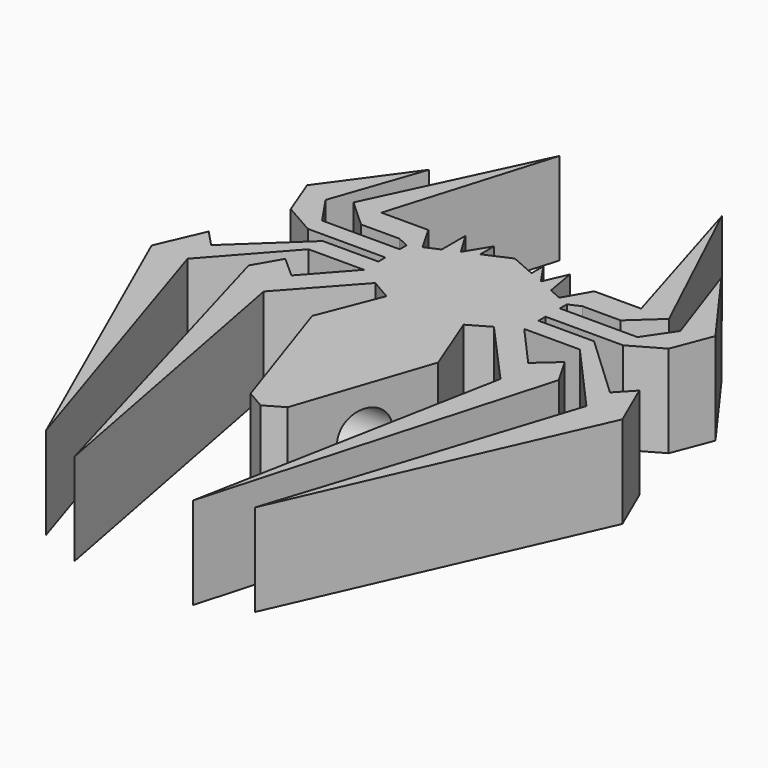
from build123d import *

# Parameters (mm, degrees)
F1_DEPTH = 25.4
F2_R     = 6.722416
F3_DEPTH = 19.304


with BuildPart() as f1:
    # F0 (on Top) → F1 (new body)
    with BuildSketch(Plane.XY):
        Polygon((-22.084782, 21.292763), (-18.868631, 22.704166), (-22.891159, 29.745255), (-35.822235, 29.745255), (-22.417855, 74.350529), (-43.49843, 29.745255), (-35.822235, 22.704166), (-25.267471, 22.704166), align=None)
        Polygon((-22.084782, 13.950433), (-22.084782, 18.870648), (-43.49843, 18.870648), (-48.935734, 26.866684), (-40.300015, 51.81431), (-56.316686, 29.745255), (-52.134149, 18.870648), (-43.49843, 13.950433), align=None)
        Polygon((-22.084782, 6.608103), (-22.084782, 11.514296), (-37.421443, 11.514296), (-55.012722, -4.994443), (-59.383125, -0.337456), (-64.927801, -13.113492), (-28.785726, -94.673045), (-55.012722, -13.113492), (-37.421443, 6.608103), align=None)
        Polygon((-16.357765, 3.304051), (-22.084782, 6.608103), (-32.656161, -5.243477), (-38.534627, 0), (-42.777374, -7.354087), (-16.357765, -100.430191), (-32.656161, -14.804116), align=None)
        Polygon((-14.944169, 24.426411), (-11.042391, 26.138701), (-14.944169, 32.623827), align=None)
        Polygon((7.062444, 31.984143), (7.062444, 27.885296), (11.042391, 26.138701), align=None)
        Polygon((7.062444, 27.885296), (0, 30.98464), (-7.062444, 27.885296), (-11.042391, 26.138701), (-14.944169, 24.426411), (-18.868631, 22.704166), (-22.084782, 21.292763), (-22.084782, 18.870648), (-22.084782, 13.950433), (-22.084782, 11.514296), (-22.084782, 6.608103), (-16.357765, 3.304051), (-10.630748, 0), (-17.385691, -17.181048), (-5.11746, -53.733349), (0, -56.685733), (5.11746, -53.733349), (17.385691, -17.181048), (10.630748, 0), (16.357765, 3.304051), (22.084782, 6.608103), (22.084782, 11.514296), (22.084782, 13.950433), (22.084782, 18.870648), (22.084782, 21.292763), (18.868631, 22.704166), (15.330053, 24.257066), (11.042391, 26.138701), align=None)
        Polygon((-11.042391, 26.138701), (-7.062444, 27.885296), (-7.062444, 32.623827), align=None)
        Polygon((13.88838, 32.623827), (11.042391, 26.138701), (15.330053, 24.257066), align=None)
        Polygon((22.891159, 29.745255), (18.868631, 22.704166), (22.084782, 21.292763), (25.267471, 22.704166), (35.822235, 22.704166), (43.49843, 29.745255), (22.417855, 74.350529), (35.822235, 29.745255), align=None)
        Polygon((43.49843, 18.870648), (22.084782, 18.870648), (22.084782, 13.950433), (43.49843, 13.950433), (52.134149, 18.870648), (56.316686, 29.745255), (40.300015, 51.81431), (48.935734, 26.866684), align=None)
        Polygon((37.421443, 11.514296), (22.084782, 11.514296), (22.084782, 6.608103), (37.421443, 6.608103), (55.012722, -13.113492), (28.785726, -94.673045), (64.927801, -13.113492), (59.383125, -0.337456), (55.012722, -4.994443), align=None)
        Polygon((32.656161, -5.243477), (22.084782, 6.608103), (16.357765, 3.304051), (32.656161, -14.804116), (16.357765, -100.430191), (42.777374, -7.354087), (38.534627, 0), align=None)
    extrude(amount=F1_DEPTH)

    # F2 (on Right) → F3 (cut, symmetric)
    with BuildSketch(Plane.YZ):
        with Locations((-35.03409, 12.8016)):
            Circle(F2_R)
    extrude(amount=F3_DEPTH, both=True, mode=Mode.SUBTRACT)


solid = f1.part
